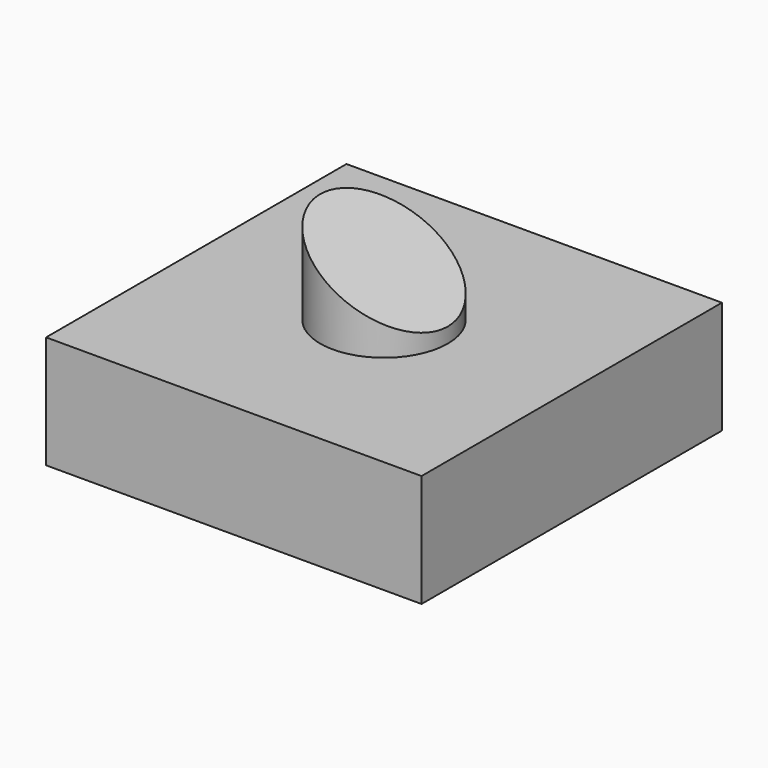
from build123d import *

# Parameters (mm, degrees)
F0_W     = 127
F0_H     = 127
F1_DEPTH = 38.1
F2_R     = 21.59
F4_DEPTH = 30.48
F7_DEPTH = 1270


with BuildPart() as f1:
    # F0 (on Top) → F1 (new body)
    with BuildSketch(Plane.XY):
        Rectangle(F0_W, F0_H)
    extrude(amount=F1_DEPTH)

    # F2 (on face) → F4 (join)
    with BuildSketch(Plane.XY.offset(38.1)):
        Circle(F2_R)
    extrude(amount=F4_DEPTH)

    # F6 (on offset) → F7 (cut)
    with BuildSketch(Plane.XZ.offset(25.4)):
        Polygon((21.590049, 68.58), (-21.590006, 68.58), (21.590049, 43.18), align=None)
    extrude(amount=-F7_DEPTH, mode=Mode.SUBTRACT)


solid = f1.part
